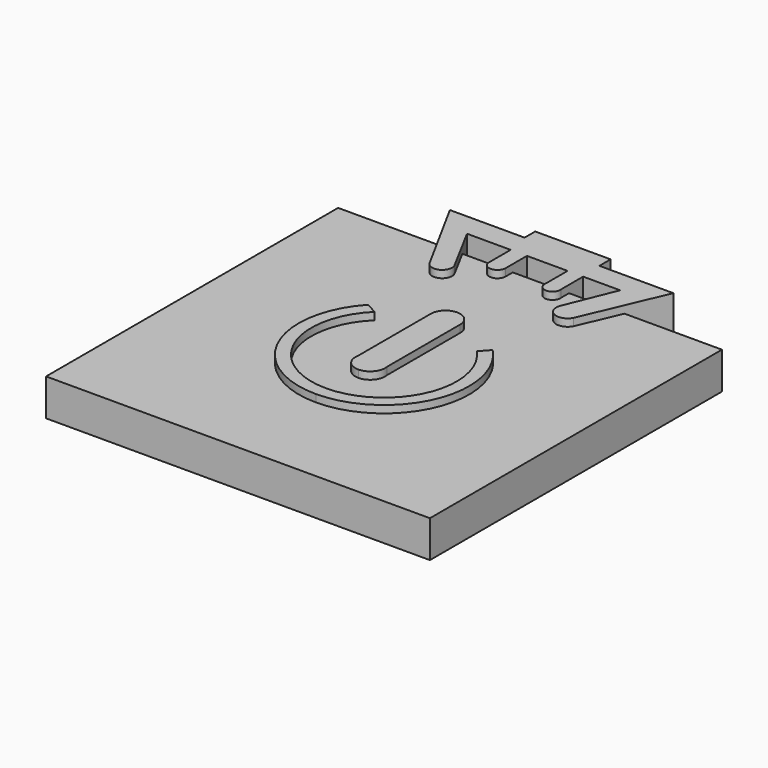
from build123d import *

# Parameters (mm, degrees)
F0_W     = 103.961334
F0_H     = 98.86241
F1_DEPTH = 10
F3_DEPTH = 2
F5_DEPTH = 2
F7_DEPTH = 12


with BuildPart() as f1:
    # F0 (on Top) → F1 (new body)
    with BuildSketch(Plane.XY):
        Rectangle(F0_W, F0_H)
    extrude(amount=F1_DEPTH)

    # F2 (on face) → F3 (join)
    with BuildSketch(Plane.XY.offset(10)):
        with BuildLine():
            ThreePointArc((-16.892111, 15.737094), (-21.169771, -9.210881), (0, -23.086783))
            ThreePointArc((0, -23.086783), (21.247464, -9.030216), (16.621562, 16.022585))
            Line((16.621562, 16.022585), (14.340605, 13.488688))
            ThreePointArc((14.340605, 13.488688), (18.071472, -7.811502), (0, -19.6875))
            ThreePointArc((0, -19.6875), (-18.227079, -7.441185), (-13.778395, 14.062485))
            Line((-13.778395, 14.062485), (-16.892111, 15.737094))
        make_face()
    extrude(amount=F3_DEPTH)

    # F4 (on face) → F5 (join)
    with BuildSketch(Plane.XY.offset(10)):
        with BuildLine():
            ThreePointArc((-3.965827, -3.950249), (-3.095911, -7.256054), (0, -8.70534))
            ThreePointArc((0, -8.70534), (3.095911, -7.256054), (3.965827, -3.950249))
            Line((3.965827, -3.950249), (3.965827, 20.820595))
            ThreePointArc((3.965827, 20.820595), (2.804263, 23.624858), (0, 24.786422))
            ThreePointArc((0, 24.786422), (-2.804263, 23.624858), (-3.965827, 20.820595))
            Line((-3.965827, 20.820595), (-3.965827, -3.950249))
        make_face()
    extrude(amount=F5_DEPTH)

    # F6 (on Top) → F7 (join)
    with BuildSketch(Plane.XY):
        with BuildLine():
            Line((10.162761, 64.030863), (0, 64.030863))
            Line((0, 64.030863), (-10.268303, 64.030863))
            Line((-10.268303, 64.030863), (-10.268303, 60.425382))
            Line((-10.268303, 60.425382), (-30.499062, 60.425382))
            Line((-30.499062, 60.425382), (-18.681094, 38.792491))
            ThreePointArc((-18.681094, 38.792491), (-15.118518, 37.676481), (-13.873785, 41.196149))
            Line((-13.873785, 41.196149), (-20.884443, 54.215942))
            Line((-20.884443, 54.215942), (-9.066476, 54.215942))
            Line((-9.066476, 54.215942), (-4.659776, 54.215942))
            Line((-4.659776, 54.215942), (6.356973, 54.215942))
            Line((6.356973, 54.215942), (10.56337, 54.215942))
            Line((10.56337, 54.215942), (20.578595, 54.215942))
            Line((20.578595, 54.215942), (15.170373, 40.795539))
            ThreePointArc((15.170373, 40.795539), (16.738154, 36.83037), (20.778898, 38.191579))
            Line((20.778898, 38.191579), (30.193213, 60.225077))
            Line((30.193213, 60.225077), (10.162761, 60.225077))
            Line((10.162761, 60.225077), (10.162761, 64.030863))
        make_face()
        with BuildLine():
            Line((10.56337, 46.804674), (10.56337, 54.215942))
            Line((10.56337, 54.215942), (6.356973, 54.215942))
            Line((6.356973, 54.215942), (6.356973, 46.804674))
            ThreePointArc((6.356973, 46.804674), (8.460172, 44.341305), (10.56337, 46.804674))
        make_face()
        with BuildLine():
            Line((-4.659776, 54.215942), (-9.066476, 54.215942))
            Line((-9.066476, 54.215942), (-9.066476, 46.604369))
            ThreePointArc((-9.066476, 46.604369), (-6.680204, 44.792543), (-4.659776, 47.004979))
            Line((-4.659776, 47.004979), (-4.659776, 54.215942))
        make_face()
    extrude(amount=F7_DEPTH)


solid = f1.part
